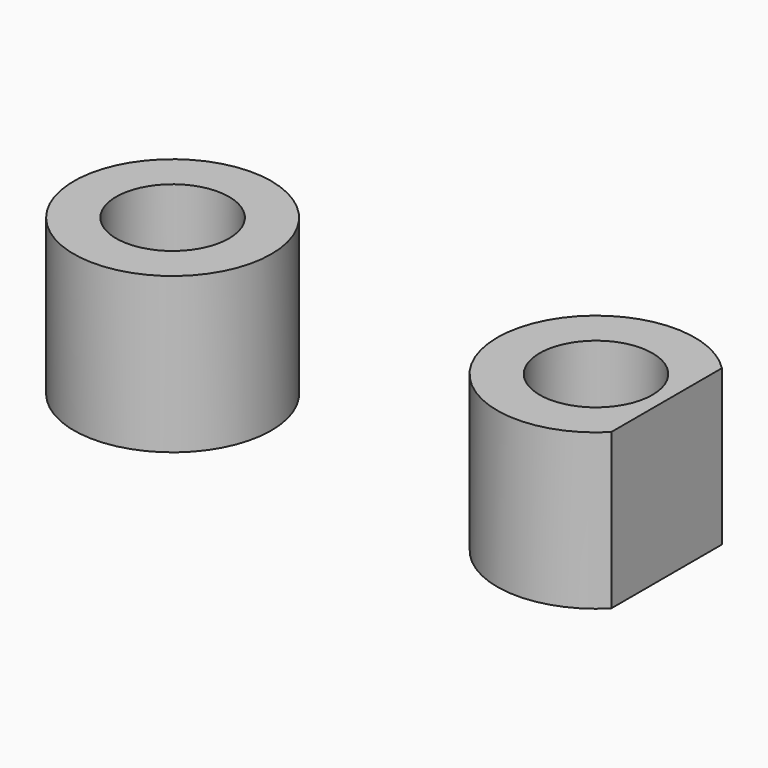
from build123d import *

# Parameters (mm, degrees)
F0_R     = 7
F0_R_2   = 4
F1_DEPTH = 11
F2_W     = 5.949609
F2_H     = 23.42659
F3_DEPTH = 11.001


with BuildPart() as f1:
    # F0 (on Top) → F1 (new body)
    with BuildSketch(Plane.XY):
        with Locations((-15, 0)):
            Circle(F0_R)
        with Locations((-15, 0)):
            Circle(F0_R_2, mode=Mode.SUBTRACT)
        with Locations((15, 0)):
            Circle(F0_R)
        with Locations((15, 0)):
            Circle(F0_R_2, mode=Mode.SUBTRACT)
    extrude(amount=F1_DEPTH)

    # F2 (on face) → F3 (cut, through all)
    with BuildSketch(Plane.XY.offset(11)):
        with Locations((22.974804, -0.86202)):
            Rectangle(F2_W, F2_H)
    extrude(amount=-F3_DEPTH, mode=Mode.SUBTRACT)


solid = f1.part
